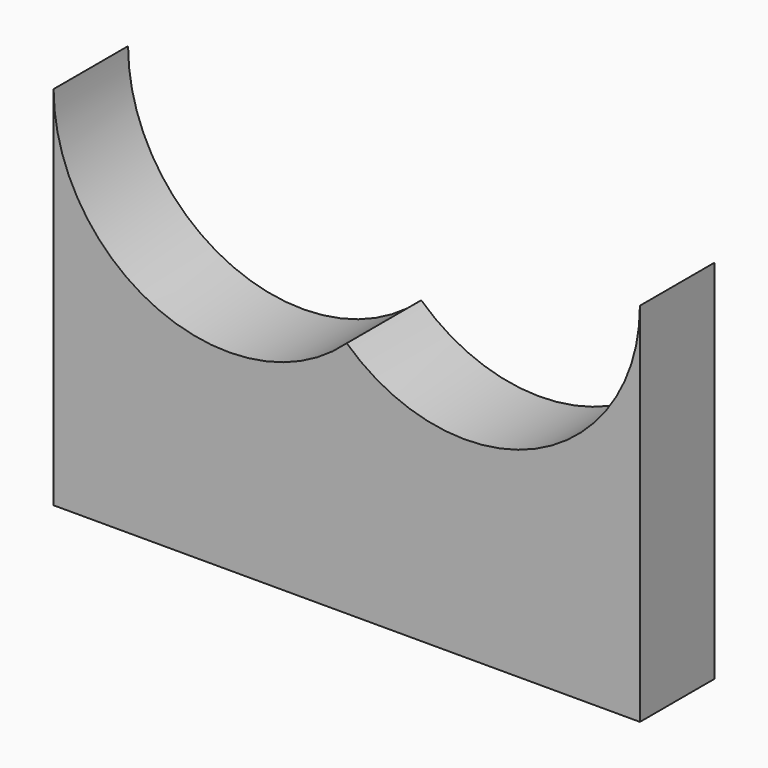
from build123d import *

# Parameters (mm, degrees)
F1_DEPTH = 3.175


with BuildPart() as f1:
    # F0 (on Front) → F1 (new body)
    with BuildSketch(Plane.XZ):
        with BuildLine():
            Line((-10, 0), (0, 0))
            Line((0, 0), (0, 8.119602))
            ThreePointArc((0, 8.119602), (-6.431716, 7.04134), (-10, 12.5))
            Line((-10, 12.5), (-10, 0))
        make_face()
        with BuildLine():
            Line((0, 8.119602), (0, 0))
            Line((0, 0), (10, 0))
            Line((10, 0), (10, 12.5))
            ThreePointArc((10, 12.5), (6.431716, 7.04134), (0, 8.119602))
        make_face()
    extrude(amount=F1_DEPTH)


solid = f1.part
